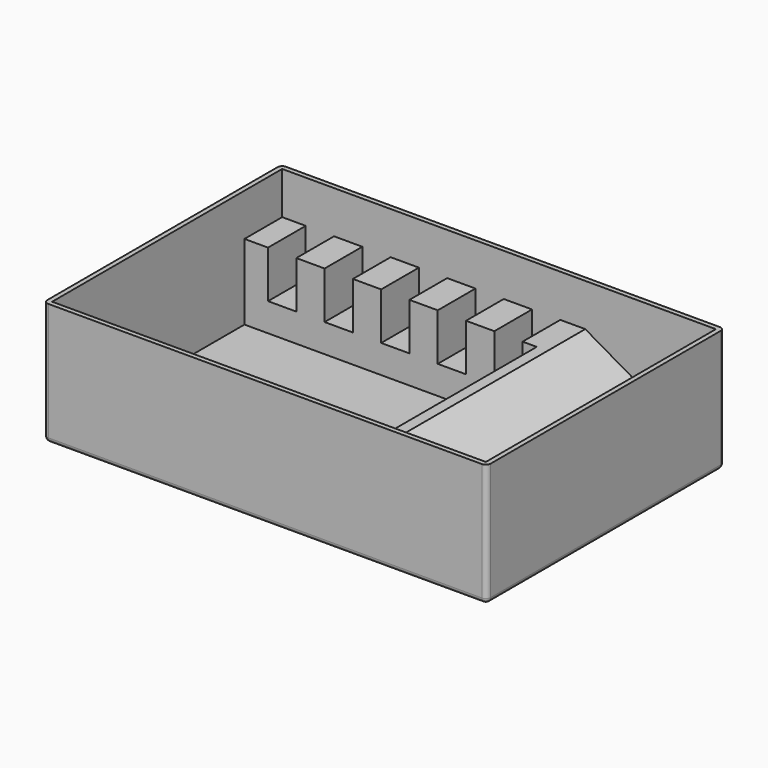
from build123d import *

# Parameters (mm, degrees)
SKETCH003_W     = 92
SKETCH003_H     = 61
PAD002_DEPTH    = 25
THICKNESS001_T  = 1
PAD003_DEPTH    = 61
SKETCH005_W     = 41
SKETCH005_H     = 25
POCKET001_DEPTH = 62


with BuildPart() as part:
    # Sketch003 → Pad002 (new body)
    with BuildSketch(Plane.XY):
        Rectangle(SKETCH003_W, SKETCH003_H)
    extrude(amount=PAD002_DEPTH)

    # Thickness001
    thickness001_openings = [part.faces().sort_by_distance(p)[0] for p in [
        (0, 0, 25),
    ]]
    offset(amount=THICKNESS001_T, openings=thickness001_openings)

    # Sketch004 (on DatumPlane) → Pad003 (join)
    with BuildSketch(Plane.XZ.offset(-30.5)):
        Polygon((46, 0), (-46, 0), (-46, 16), (-41, 16), (-41, 6), (-35, 6), (-35, 16), (-29, 16), (-29, 6), (-23, 6), (-23, 16), (-17, 16), (-17, 6), (-11, 6), (-11, 16), (-5, 16), (-5, 6), (1, 6), (1, 16), (7, 16), (7, 6), (13, 6), (13, 16), (18.287187, 16), align=None)
    extrude(amount=PAD003_DEPTH)

    # Sketch005 (on DatumPlane) → Pocket001 (cut)
    with BuildSketch(Plane.YZ.offset(-46)):
        with Locations((0, 12.5)):
            Rectangle(SKETCH005_W, SKETCH005_H)
    extrude(amount=POCKET001_DEPTH, mode=Mode.SUBTRACT)


solid = part.part
